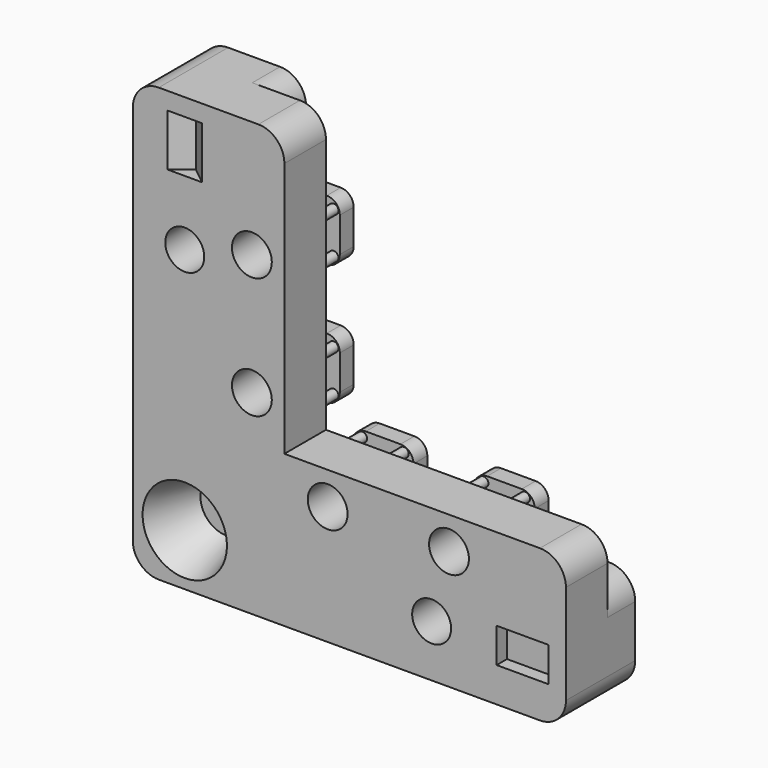
from build123d import *

# Parameters (mm, degrees)
PAD006_DEPTH     = 4
PAD002_DEPTH     = 10
SKETCH005_R      = 2.25
POCKET001_DEPTH  = 10.001
BOX_W            = 50
BOX_H            = 50
BOX_DEPTH        = 2
HOLE_D           = 3.4
HOLE_DEPTH       = 6
HOLE_CBORE_D     = 4.6
HOLE_CBORE_DEPTH = 5
HOLE_TIPS_R      = 1.7
SKETCH017_R      = 0.55
PAD009_DEPTH     = 4
POCKET007_DEPTH  = 2
POCKET008_DEPTH  = 6
SKETCH022_W      = 1.5
SKETCH022_H      = 4
POCKET009_DEPTH  = 6
FILLET_R         = 3


with BuildPart() as setscrewbackplatecutbody:
    # Sketch013 → Pad006 (new body, symmetric)
    with BuildSketch(Plane.XZ.offset(-11.5)):
        with BuildLine():
            Line((19, 13.5), (19, 16))
            ThreePointArc((20.5, 17.5), (19.43934, 17.06066), (19, 16))
            Line((20.5, 17.5), (24.5, 17.5))
            ThreePointArc((26, 16), (25.56066, 17.06066), (24.5, 17.5))
            Line((26, 16), (26, 13.5))
            ThreePointArc((26, 13.5), (26.43934, 12.43934), (27.5, 12))
            Line((27.5, 12), (31.5, 12))
            ThreePointArc((31.5, 12), (32.56066, 12.43934), (33, 13.5))
            Line((33, 13.5), (33, 16))
            ThreePointArc((34.5, 17.5), (33.43934, 17.06066), (33, 16))
            Line((34.5, 17.5), (38.5, 17.5))
            ThreePointArc((40, 16), (39.56066, 17.06066), (38.5, 17.5))
            Line((40, 16), (40, 13.5))
            ThreePointArc((40, 13.5), (40.43934, 12.43934), (41.5, 12))
            Line((41.5, 12), (70, 12))
            Line((70, 12), (70, 23.387521))
            Line((70, 23.387521), (23.387521, 70))
            Line((23.387521, 70), (12, 70))
            Line((12, 70), (12, 41.5))
            ThreePointArc((12, 41.5), (12.43934, 40.43934), (13.5, 40))
            Line((13.5, 40), (16, 40))
            ThreePointArc((17.5, 38.5), (17.06066, 39.56066), (16, 40))
            Line((17.5, 38.5), (17.5, 34.5))
            ThreePointArc((16, 33), (17.06066, 33.43934), (17.5, 34.5))
            Line((16, 33), (13.5, 33))
            ThreePointArc((13.5, 33), (12.43934, 32.56066), (12, 31.5))
            Line((12, 31.5), (12, 27.5))
            ThreePointArc((12, 27.5), (12.43934, 26.43934), (13.5, 26))
            Line((13.5, 26), (16, 26))
            ThreePointArc((17.5, 24.5), (17.06066, 25.56066), (16, 26))
            Line((17.5, 24.5), (17.5, 20.5))
            ThreePointArc((16, 19), (17.06066, 19.43934), (17.5, 20.5))
            Line((16, 19), (13.5, 19))
            ThreePointArc((13.5, 19), (12.43934, 18.56066), (12, 17.5))
            Line((12, 17.5), (12, 13.5))
            ThreePointArc((11.221376, 12.229989), (11.789849, 12.755154), (12, 13.5))
            ThreePointArc((11.221376, 12.229989), (11.031264, 11.031264), (12.229989, 11.221376))
            ThreePointArc((13.5, 12), (12.755154, 11.789849), (12.229989, 11.221376))
            Line((13.5, 12), (17.5, 12))
            ThreePointArc((17.5, 12), (18.56066, 12.43934), (19, 13.5))
        make_face()
    extrude(amount=PAD006_DEPTH, both=True)


with BuildPart() as obj1:
    # Sketch003 (on DatumPlane) → Pad002 (new body)
    with BuildSketch(Plane.XZ.offset(-1.5)):
        with BuildLine():
            Line((3, 0), (47, 0))
            ThreePointArc((47, 0), (49.12132, 0.87868), (50, 3))
            Line((50, 3), (50, 14.5))
            ThreePointArc((50, 14.5), (49.12132, 16.62132), (47, 17.5))
            Line((47, 17.5), (17.5, 17.5))
            Line((17.5, 17.5), (17.5, 47))
            ThreePointArc((17.5, 47), (16.62132, 49.12132), (14.5, 50))
            Line((14.5, 50), (3, 50))
            ThreePointArc((3, 50), (0.87868, 49.12132), (0, 47))
            Line((0, 47), (0, 3))
            ThreePointArc((0, 3), (0.87868, 0.87868), (3, 0))
        make_face()
    extrude(amount=-PAD002_DEPTH)

    # Sketch005 (on DatumPlane) → Pocket001 (cut, through all)
    with BuildSketch(Plane.XZ.offset(-1.5)):
        with Locations((34.5, 6)):
            Circle(SKETCH005_R)
        with Locations((6, 34.5)):
            Circle(SKETCH005_R)
    extrude(amount=-POCKET001_DEPTH, mode=Mode.SUBTRACT)

    # Box → Box (cut)
    with BuildSketch(Plane(origin=(12, 9.5, 12), x_dir=(1, 0, 0), z_dir=(0, -1, 0))):
        with Locations((25, 25)):
            Rectangle(BOX_W, BOX_H)
    extrude(amount=BOX_DEPTH, mode=Mode.SUBTRACT)

    # Boolean003: cut SetscrewBackplateCutBody
    add(setscrewbackplatecutbody.part, mode=Mode.SUBTRACT)

    # Hole
    with Locations(Plane.XZ.offset(-1.5)):
        with Locations((36.5, 13.75), (22.5, 13.75), (13.75, 22.5), (13.75, 36.5)):
            CounterBoreHole(HOLE_D / 2, HOLE_CBORE_D / 2, HOLE_CBORE_DEPTH, depth=HOLE_DEPTH)

    # Hole tips → Hole tip 1 section 0
    with BuildSketch(Plane.XZ.offset(-7.5), mode=Mode.PRIVATE) as hole_tip_1_s0:
        with Locations((36.5, 13.75)):
            Circle(HOLE_TIPS_R)
    loft([hole_tip_1_s0.sketch, Vertex(36.5, 8.521463, 13.75)], mode=Mode.SUBTRACT)

    # Hole tips → Hole tip 2 section 0
    with BuildSketch(Plane.XZ.offset(-7.5), mode=Mode.PRIVATE) as hole_tip_2_s0:
        with Locations((22.5, 13.75)):
            Circle(HOLE_TIPS_R)
    loft([hole_tip_2_s0.sketch, Vertex(22.5, 8.521463, 13.75)], mode=Mode.SUBTRACT)

    # Hole tips → Hole tip 3 section 0
    with BuildSketch(Plane.XZ.offset(-7.5), mode=Mode.PRIVATE) as hole_tip_3_s0:
        with Locations((13.75, 22.5)):
            Circle(HOLE_TIPS_R)
    loft([hole_tip_3_s0.sketch, Vertex(13.75, 8.521463, 22.5)], mode=Mode.SUBTRACT)

    # Hole tips → Hole tip 4 section 0
    with BuildSketch(Plane.XZ.offset(-7.5), mode=Mode.PRIVATE) as hole_tip_4_s0:
        with Locations((13.75, 36.5)):
            Circle(HOLE_TIPS_R)
    loft([hole_tip_4_s0.sketch, Vertex(13.75, 8.521463, 36.5)], mode=Mode.SUBTRACT)

    # Sketch017 (on DatumPlane) → Pad009 (join)
    with BuildSketch(Plane.XZ.offset(-11.5)):
        with Locations((38.9, 16.8)):
            Circle(SKETCH017_R)
        with Locations((34.1, 16.8)):
            Circle(SKETCH017_R)
        with Locations((24.9, 16.8)):
            Circle(SKETCH017_R)
        with Locations((20.1, 16.8)):
            Circle(SKETCH017_R)
        with Locations((16.8, 20.1)):
            Circle(SKETCH017_R)
        with Locations((16.8, 24.9)):
            Circle(SKETCH017_R)
        with Locations((16.8, 34.1)):
            Circle(SKETCH017_R)
        with Locations((16.8, 38.9)):
            Circle(SKETCH017_R)
    extrude(amount=PAD009_DEPTH)

    # Sketch019 (on DatumPlane) → Pocket007 (cut)
    with BuildSketch(Plane.XZ.offset(-11.5)):
        with BuildLine():
            ThreePointArc((35.5, 10), (34.5, 11), (33.5, 10))
            Line((33.5, 10), (33.5, 2))
            ThreePointArc((33.5, 2), (34.5, 1), (35.5, 2))
            Line((35.5, 2), (35.5, 10))
        make_face()
        with BuildLine():
            ThreePointArc((10, 33.5), (11, 34.5), (10, 35.5))
            Line((10, 35.5), (2, 35.5))
            ThreePointArc((2, 35.5), (1, 34.5), (2, 33.5))
            Line((2, 33.5), (10, 33.5))
        make_face()
    extrude(amount=POCKET007_DEPTH, mode=Mode.SUBTRACT)

    # Sketch021 → Pocket008 (cut)
    with BuildSketch(Plane.XY.offset(48)):
        Polygon((4, 1.5), (8, 1.5), (6, 3.1), align=None)
    extrude(amount=-POCKET008_DEPTH, mode=Mode.SUBTRACT)

    # Sketch022 → Pocket009 (cut)
    with BuildSketch(Plane.YZ.offset(48)):
        with Locations((2.25, 6)):
            Rectangle(SKETCH022_W, SKETCH022_H)
    extrude(amount=-POCKET009_DEPTH, mode=Mode.SUBTRACT)

    # Cone001 → Cone001 (revolve, cut)
    with BuildSketch(Plane(origin=(6, 1.5, 6), x_dir=(-1, 0, 0), z_dir=(0, 0, -1))):
        Polygon((0, 0), (4.869, 0), (2.983, 6), (0, 6), align=None)
    revolve(axis=Axis((6, 1.5, 6), (0, 1, 0)), mode=Mode.SUBTRACT)

    # Fillet
    fillet_edges = [obj1.edges().sort_by_distance(p)[0] for p in [
        (12, 9.5, 50),
        (50, 9.5, 12),
    ]]
    fillet(fillet_edges, radius=FILLET_R)


solid = obj1.part
